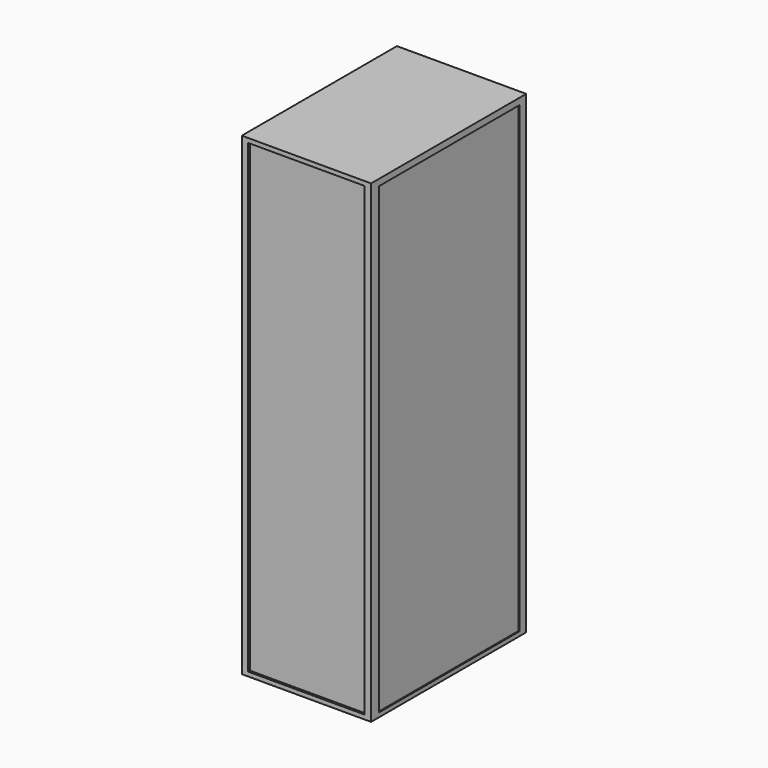
from build123d import *

# Parameters (mm, degrees)
SKETCH012_W     = 600
SKETCH012_H     = 2200
PAD007_DEPTH    = 450
SKETCH010_W     = 540
SKETCH010_H     = 2160
POCKET002_DEPTH = 10
SKETCH011_W     = 2150
SKETCH011_H     = 815
POCKET003_DEPTH = 5


with BuildPart() as part:
    # Sketch012 → Pad007 (new body, symmetric)
    with BuildSketch(Plane.XZ):
        Rectangle(SKETCH012_W, SKETCH012_H)
    extrude(amount=PAD007_DEPTH, both=True)

    # Sketch010 (on Face6 of Pad007) → Pocket002 (cut)
    with BuildSketch(Plane.XZ.offset(450)):
        Rectangle(SKETCH010_W, SKETCH010_H)
    pocket002 = extrude(amount=-POCKET002_DEPTH, mode=Mode.SUBTRACT)

    # Mirrored: Pocket002 across XZ
    add(pocket002.mirror(Plane.XZ), mode=Mode.SUBTRACT)

    # Sketch011 (on Face3 of Mirrored) → Pocket003 (cut)
    with BuildSketch(Plane(origin=(300, 0, 0), x_dir=(0, 0, 1), z_dir=(1, 0, 0))):
        with Locations((-5, -2.5)):
            Rectangle(SKETCH011_W, SKETCH011_H)
    pocket003 = extrude(amount=-POCKET003_DEPTH, mode=Mode.SUBTRACT)

    # Mirrored001: Pocket003 across YZ
    add(pocket003.mirror(Plane.YZ), mode=Mode.SUBTRACT)


solid = part.part
